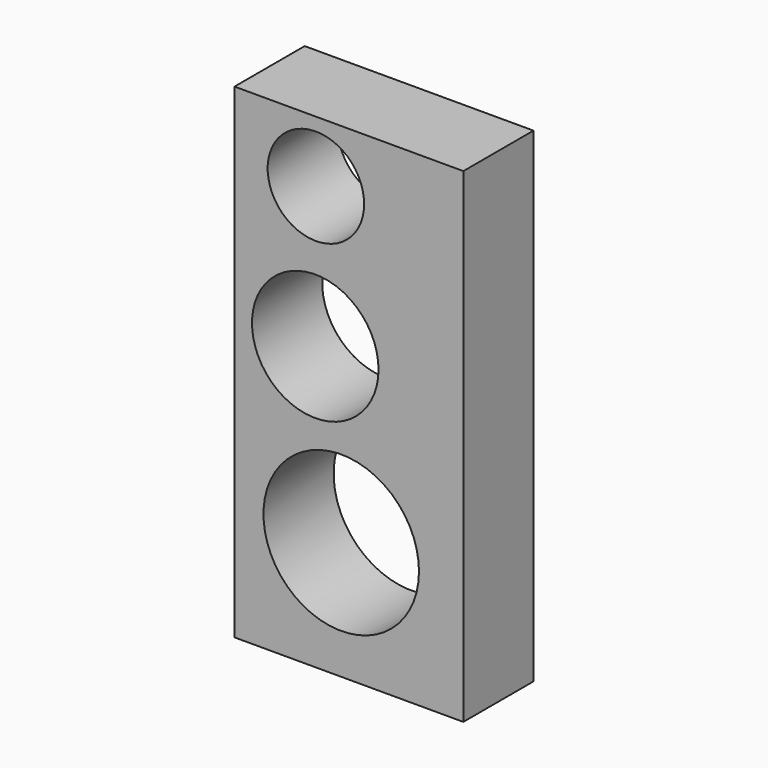
from build123d import *

# Parameters (mm, degrees)
F0_W      = 66.279934
F0_H      = 140.466083
F1_DEPTH  = 25.4
F2_R      = 13.971168
F3_DEPTH  = 25.4
F4_R      = 19.032879
F5_DEPTH  = 25.4
F5_FACE_R = 19.032879
F6_DEPTH  = 25.4
F7_R      = 18.323501
F7_R_2    = 22.521458
F8_DEPTH  = 25.4


with BuildPart() as f1:
    # F0 (on Front) → F1 (new body)
    with BuildSketch(Plane.XZ):
        with Locations((-19.949931, -13.01357)):
            Rectangle(F0_W, F0_H)
    extrude(amount=F1_DEPTH)

    # F2 (on face) → F3 (cut)
    with BuildSketch(Plane.XZ.offset(25.4)):
        with Locations((-29.521925, 39.461106)):
            Circle(F2_R)
    extrude(amount=-F3_DEPTH, mode=Mode.SUBTRACT)

    # F4 (on face) → F5 (join)
    with BuildSketch(Plane.XZ.offset(25.4)):
        with Locations((-25.564913, -7.869989)):
            Circle(F4_R)
    extrude(amount=F5_DEPTH)

    # F5_face (on face) → F6 (cut)
    with BuildSketch(Plane(origin=(-25.564913, -50.8, -7.869989), x_dir=(1, 0, 0), z_dir=(0, -1, 0))):
        Circle(F5_FACE_R)
    extrude(amount=-F6_DEPTH, mode=Mode.SUBTRACT)

    # F7 (on face) → F8 (cut)
    with BuildSketch(Plane.XZ.offset(25.4)):
        with Locations((-29.70336, -1.401637)):
            Circle(F7_R)
        with Locations((-22.181081, -49.042739)):
            Circle(F7_R_2)
    extrude(amount=-F8_DEPTH, mode=Mode.SUBTRACT)


solid = f1.part
